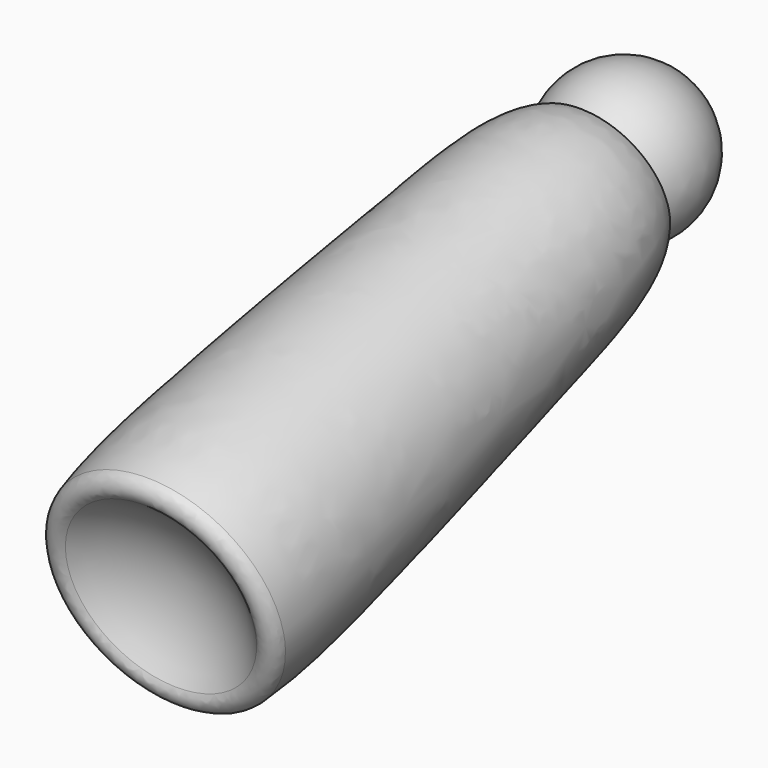
from build123d import *

# Parameters (mm, degrees)
FILLET059_R             = 6
FILLET060_R             = 3
BODY037_ROLL_ANGLE      = -179.856248
BODY037_PITCH_ANGLE     = -13.99509
BODY037_PLACEMENT_ANGLE = 90.967664


with BuildPart() as part:
    # Sketch125 → Revolution065 (revolve)
    with BuildSketch(Plane.XY):
        with BuildLine():
            Line((15.9442, 0), (306.848053, 0))
            add(Edge.make_bspline(
                [(306.848053, 0), (324.317413, 42.311157), (231.745069, 46.553256), (127.654996, 54.056504), (-18.918443, 56.908137), (15.9442, 0)],
                knots=[0, 0, 0, 0, 0.333333, 0.666667, 1, 1, 1, 1], degree=3))
        make_face()
    revolve(axis=Axis((0, 0, 0), (1, 0, 0)))

    # Sketch126 → Groove058 (revolve, cut)
    with BuildSketch(Plane.XY):
        with BuildLine():
            Line((-60, 0), (60, 0))
            ThreePointArc((60, 0), (0, 60), (-60, 0))
        make_face()
    revolve(axis=Axis((0, 0, 0), (1, 0, 0)), mode=Mode.SUBTRACT)

    # Fillet059
    fillet059_edges = [part.edges().sort_by_distance(p)[0] for p in [
        (33.106232, -50.039758, 0),
    ]]
    fillet(fillet059_edges, radius=FILLET059_R)

    # Sketch127 → Groove059 (revolve, cut)
    with BuildSketch(Plane.XY):
        with BuildLine():
            Line((285, 0), (355, 0))
            ThreePointArc((355, 0), (320, 35), (285, 0))
        make_face()
    revolve(axis=Axis((0, 0, 0), (1, 0, 0)), mode=Mode.SUBTRACT)

    # Fillet060
    fillet060_edges = [part.edges().sort_by_distance(p)[0] for p in [
        (304.668851, -31.463564, 0),
    ]]
    fillet(fillet060_edges, radius=FILLET060_R)

    # Sketch127 → Revolution066 (revolve)
    with BuildSketch(Plane.XY):
        with BuildLine():
            Line((285, 0), (355, 0))
            ThreePointArc((355, 0), (320, 35), (285, 0))
        make_face()
    revolve(axis=Axis((0, 0, 0), (1, 0, 0)))


with BuildPart() as part_1:
    # Body037 roll: moved
    add(part.part.rotate(Axis((0, 0, 0), (1, 0, 0)), BODY037_ROLL_ANGLE))


with BuildPart() as part_2:
    # Body037 pitch: moved
    add(part_1.part.rotate(Axis((0, 0, 0), (0, 1, 0)), BODY037_PITCH_ANGLE))


with BuildPart() as part_3:
    # Body037 placement: moved
    add(part_2.part.moved(Location((184, 1453.861755, 9.357312))).rotate(Axis((184, 1453.861755, 9.357312), (0, 0, 1)), BODY037_PLACEMENT_ANGLE))


solid = part_3.part
